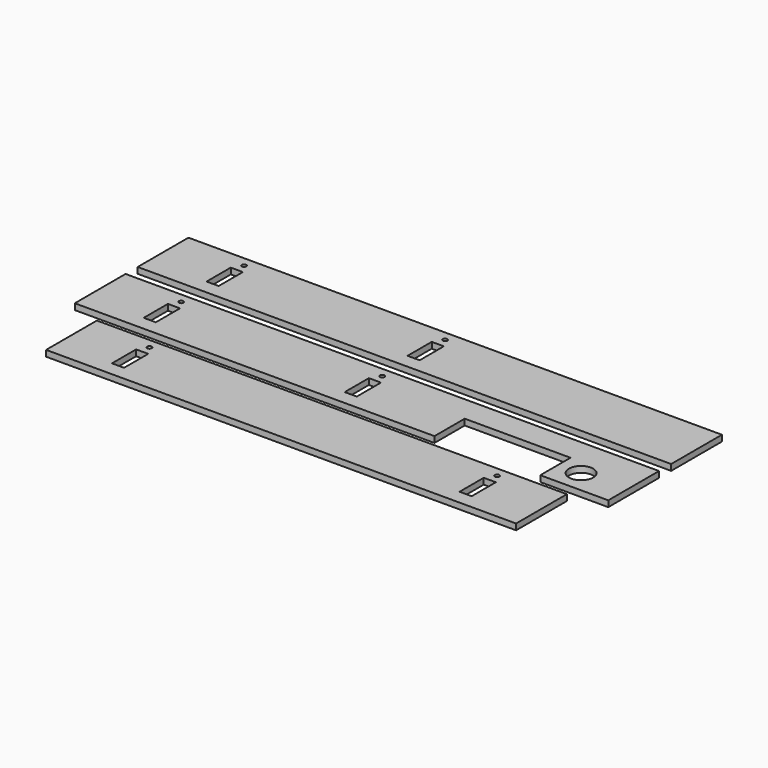
from build123d import *

# Parameters (mm, degrees)
SKETCH_R      = 1.5
SKETCH_R_2    = 8
SKETCH_W      = 8
SKETCH_H      = 20
PAD_DEPTH     = 4
SKETCH001_W   = 353
SKETCH001_H   = 42
SKETCH001_R   = 1.5
SKETCH001_W_2 = 8
SKETCH001_H_2 = 20
PAD001_DEPTH  = 4
SKETCH002_W   = 311
SKETCH002_H   = 42
SKETCH002_R   = 1.5
SKETCH002_W_2 = 8
SKETCH002_H_2 = 20
PAD002_DEPTH  = 4


with BuildPart() as left:
    # Sketch → Pad (new body)
    with BuildSketch(Plane.XY):
        Polygon((-176.5, 0), (176.5, 0), (176.5, -42), (131.5, -42), (131.5, -17), (61.5, -17), (61.5, -42), (-176.5, -42), align=None)
        with Locations((-134.5, -6.5)):
            Circle(SKETCH_R, mode=Mode.SUBTRACT)
        with Locations((-1.5, -6.5)):
            Circle(SKETCH_R, mode=Mode.SUBTRACT)
        with Locations((146.5, -27)):
            Circle(SKETCH_R_2, mode=Mode.SUBTRACT)
        with Locations((-134.5, -22.5)):
            Rectangle(SKETCH_W, SKETCH_H, mode=Mode.SUBTRACT)
        with Locations((-1.5, -22.5)):
            Rectangle(SKETCH_W, SKETCH_H, mode=Mode.SUBTRACT)
    extrude(amount=PAD_DEPTH)


with BuildPart() as right:
    # Sketch001 → Pad001 (new body)
    with BuildSketch(Plane.XY):
        with Locations((0, 31)):
            Rectangle(SKETCH001_W, SKETCH001_H)
        with Locations((-134.5, 45.5)):
            Circle(SKETCH001_R, mode=Mode.SUBTRACT)
        with Locations((-1.5, 45.5)):
            Circle(SKETCH001_R, mode=Mode.SUBTRACT)
        with Locations((-134.5, 29.5)):
            Rectangle(SKETCH001_W_2, SKETCH001_H_2, mode=Mode.SUBTRACT)
        with Locations((-1.5, 29.5)):
            Rectangle(SKETCH001_W_2, SKETCH001_H_2, mode=Mode.SUBTRACT)
    extrude(amount=PAD001_DEPTH)


with BuildPart() as up:
    # Sketch002 → Pad002 (new body)
    with BuildSketch(Plane.XY):
        with Locations((0, -71)):
            Rectangle(SKETCH002_W, SKETCH002_H)
        with Locations((-115.5, -56.5)):
            Circle(SKETCH002_R, mode=Mode.SUBTRACT)
        with Locations((114.5, -56.5)):
            Circle(SKETCH002_R, mode=Mode.SUBTRACT)
        with Locations((-115.5, -72.5)):
            Rectangle(SKETCH002_W_2, SKETCH002_H_2, mode=Mode.SUBTRACT)
        with Locations((114.5, -72.5)):
            Rectangle(SKETCH002_W_2, SKETCH002_H_2, mode=Mode.SUBTRACT)
    extrude(amount=PAD002_DEPTH)


solid = Compound([left.part, right.part, up.part])
